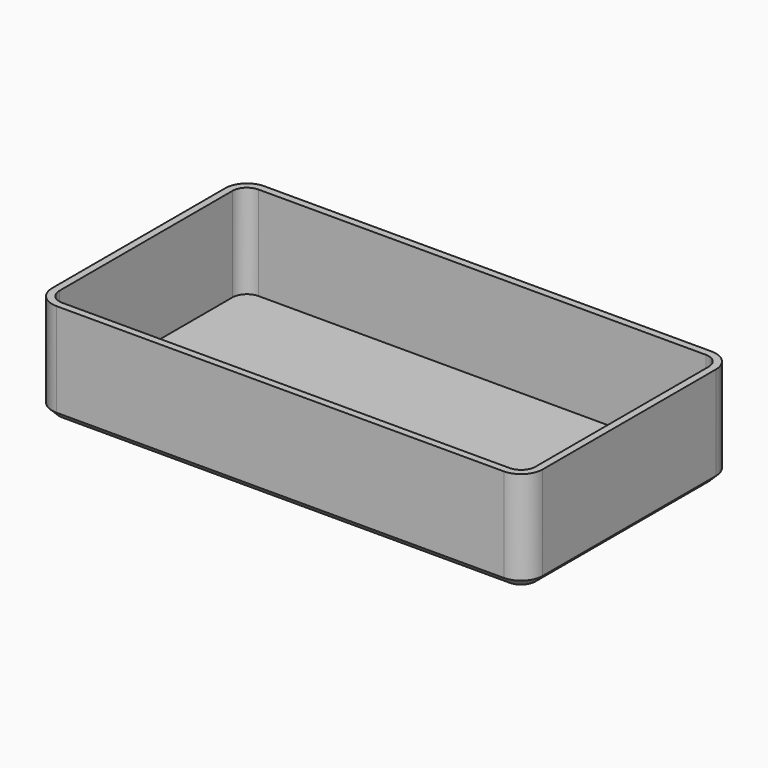
from build123d import *

# Parameters (mm, degrees)
PAD_DEPTH    = 14
THICKNESS_T  = -1
CHAMFER_SIZE = 1


with BuildPart() as part:
    # Sketch → Pad (new body)
    with BuildSketch(Plane.XY):
        with BuildLine():
            Line((0, 3), (0, 33))
            ThreePointArc((3, 36), (0.87868, 35.12132), (0, 33))
            Line((3, 36), (65, 36))
            ThreePointArc((68, 33), (67.12132, 35.12132), (65, 36))
            Line((68, 33), (68, 3))
            ThreePointArc((65, 0), (67.12132, 0.87868), (68, 3))
            Line((3, 0), (65, 0))
            ThreePointArc((0, 3), (0.87868, 0.87868), (3, 0))
        make_face()
    extrude(amount=PAD_DEPTH)

    # Thickness
    thickness_openings = [part.faces().sort_by_distance(p)[0] for p in [
        (34, 18, 14),
    ]]
    offset(amount=THICKNESS_T, openings=thickness_openings)

    # Chamfer
    chamfer_edges = [part.edges().sort_by_distance(p)[0] for p in [
        (34, 0, 0),
    ]]
    chamfer(chamfer_edges, length=CHAMFER_SIZE)


solid = part.part
